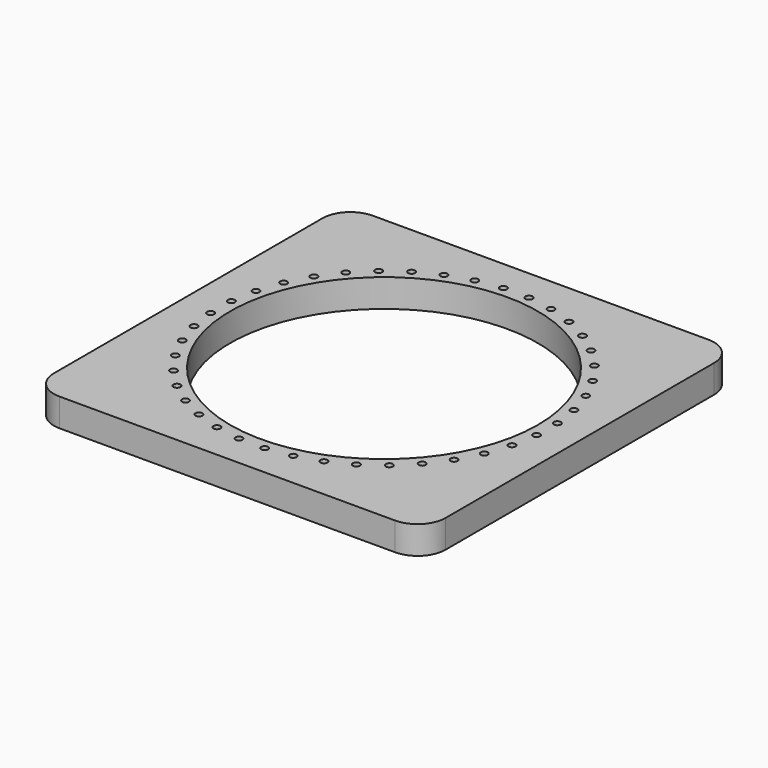
from build123d import *

# Parameters (mm, degrees)
F1_DEPTH = 25.4
F2_R     = 139.7
F3_DEPTH = 25.4
F4_R     = 3.175
F5_DEPTH = 25.401


with BuildPart() as f1:
    # F0 (on Top) → F1 (new body)
    with BuildSketch(Plane.XY):
        with BuildLine():
            Line((-152.4, -177.8), (152.4, -177.8))
            ThreePointArc((152.4, -177.8), (170.360512, -170.360512), (177.8, -152.4))
            Line((177.8, -152.4), (177.8, 152.4))
            ThreePointArc((177.8, 152.4), (170.360512, 170.360512), (152.4, 177.8))
            Line((152.4, 177.8), (-152.4, 177.8))
            ThreePointArc((-152.4, 177.8), (-170.360512, 170.360512), (-177.8, 152.4))
            Line((-177.8, 152.4), (-177.8, -152.4))
            ThreePointArc((-177.8, -152.4), (-170.360512, -170.360512), (-152.4, -177.8))
        make_face()
    extrude(amount=F1_DEPTH)

    # F2 (on face) → F3 (cut)
    with BuildSketch(Plane.XY.offset(25.4)):
        Circle(F2_R)
    extrude(amount=-F3_DEPTH, mode=Mode.SUBTRACT)

    # F4 (on face) → F5 (cut, through all)
    with BuildSketch(Plane.XY.offset(25.4)):
        with Locations((-148.683629, 12.699569)):
            Circle(F4_R)
        with Locations((-148.839737, -10.716028)):
            Circle(F4_R)
        with Locations((-145.330917, -33.867761)):
            Circle(F4_R)
        with Locations((-138.243567, -56.185557)):
            Circle(F4_R)
        with Locations((-127.752202, -77.119878)):
            Circle(F4_R)
        with Locations((-114.115153, -96.155251)):
            Circle(F4_R)
        with Locations((-97.668211, -112.822964)):
            Circle(F4_R)
        with Locations((-78.816354, -126.7126)):
            Circle(F4_R)
        with Locations((-58.023776, -137.482152)):
            Circle(F4_R)
        with Locations((-35.80246, -144.866437)):
            Circle(F4_R)
        with Locations((-12.699569, -148.683629)):
            Circle(F4_R)
        with Locations((10.716028, -148.839737)):
            Circle(F4_R)
        with Locations((33.867761, -145.330917)):
            Circle(F4_R)
        with Locations((56.185557, -138.243567)):
            Circle(F4_R)
        with Locations((77.119878, -127.752202)):
            Circle(F4_R)
        with Locations((96.155251, -114.115153)):
            Circle(F4_R)
        with Locations((112.822964, -97.668211)):
            Circle(F4_R)
        with Locations((126.7126, -78.816354)):
            Circle(F4_R)
        with Locations((137.482152, -58.023776)):
            Circle(F4_R)
        with Locations((144.866437, -35.80246)):
            Circle(F4_R)
        with Locations((148.683629, -12.699569)):
            Circle(F4_R)
        with Locations((148.839737, 10.716028)):
            Circle(F4_R)
        with Locations((145.330917, 33.867761)):
            Circle(F4_R)
        with Locations((138.243567, 56.185557)):
            Circle(F4_R)
        with Locations((127.752202, 77.119878)):
            Circle(F4_R)
        with Locations((114.115153, 96.155251)):
            Circle(F4_R)
        with Locations((97.668211, 112.822964)):
            Circle(F4_R)
        with Locations((78.816354, 126.7126)):
            Circle(F4_R)
        with Locations((58.023776, 137.482152)):
            Circle(F4_R)
        with Locations((35.80246, 144.866437)):
            Circle(F4_R)
        with Locations((12.699569, 148.683629)):
            Circle(F4_R)
        with Locations((-10.716028, 148.839737)):
            Circle(F4_R)
        with Locations((-33.867761, 145.330917)):
            Circle(F4_R)
        with Locations((-56.185557, 138.243567)):
            Circle(F4_R)
        with Locations((-77.119878, 127.752202)):
            Circle(F4_R)
        with Locations((-96.155251, 114.115153)):
            Circle(F4_R)
        with Locations((-112.822964, 97.668211)):
            Circle(F4_R)
        with Locations((-126.7126, 78.816354)):
            Circle(F4_R)
        with Locations((-137.482152, 58.023776)):
            Circle(F4_R)
        with Locations((-144.866437, 35.80246)):
            Circle(F4_R)
    extrude(amount=-F5_DEPTH, mode=Mode.SUBTRACT)


solid = f1.part
